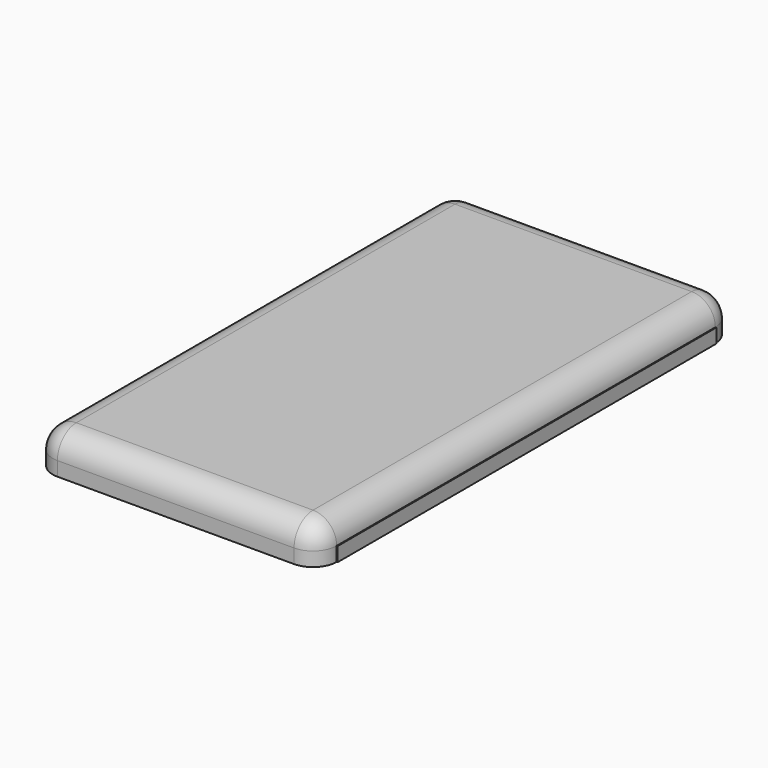
from build123d import *

# Parameters (mm, degrees)
F0_W     = 60
F0_H     = 110
F1_DEPTH = 8
F2_R     = 5
F3_R     = 5
F4_R     = 5
F5_DEPTH = 0.2
F6_R     = 5
F7_W     = 8.2122897729
F7_H     = 1.7597768456
F8_DEPTH = 0.8
F9_DEPTH = 25


with BuildPart() as f1:
    # F0 (on Top) → F1 (new body)
    with BuildSketch(Plane.XY):
        Rectangle(F0_W, F0_H)
    extrude(amount=F1_DEPTH)

    # F2
    f2_edges = [f1.edges().sort_by_distance(p)[0] for p in [
        (0, -55, 8),
    ]]
    fillet(f2_edges, radius=F2_R)

    # F3
    f3_edges = [f1.edges().sort_by_distance(p)[0] for p in [
        (30, 2.5, 8),
    ]]
    fillet(f3_edges, radius=F3_R)

    # F4
    f4_edges = [f1.edges().sort_by_distance(p)[0] for p in [
        (-2.5, 55, 8),
    ]]
    fillet(f4_edges, radius=F4_R)

    # F5 (add): a face of the model
    f5_faces = [f1.faces().sort_by_distance(p)[0] for p in [
        (30, 0, 1.5),
    ]]
    extrude(f5_faces, amount=F5_DEPTH)

    # F6
    f6_edges = [f1.edges().sort_by_distance(p)[0] for p in [
        (-30, 0, 8),
    ]]
    fillet(f6_edges, radius=F6_R)

    # F7 (on Front) → F8 (cut)
    with BuildSketch(Plane.XZ):
        with Locations((0, 4.8393858597)):
            Rectangle(F7_W, F7_H)
    extrude(amount=-F8_DEPTH, mode=Mode.SUBTRACT)

    # F7 (on Front) → F9 (cut)
    with BuildSketch(Plane.XZ):
        with Locations((0, 4.8393858597)):
            Rectangle(F7_W, F7_H)
    extrude(amount=-F9_DEPTH, mode=Mode.SUBTRACT)


solid = f1.part
